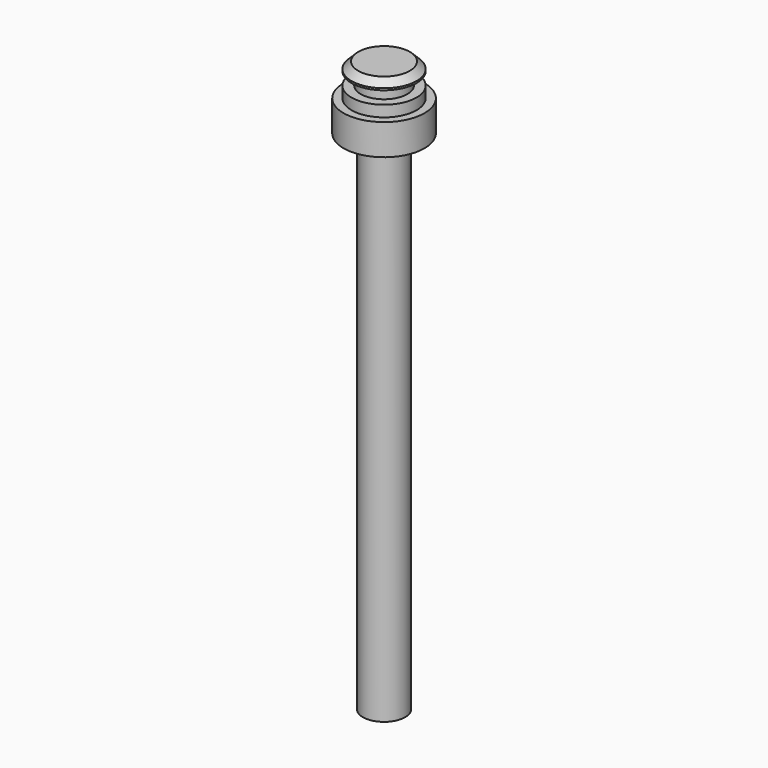
from build123d import *

# Parameters (mm, degrees)
F0_R     = 3.175
F1_DEPTH = 76.2
F2_R     = 6.0833
F3_DEPTH = 4.6482
F4_R     = 4.8895
F5_DEPTH = 4.8768
F6_W     = 1.3843
F6_H     = 1.905
F8_SIZE  = 1.016


with BuildPart() as f1:
    # F0 (on Top) → F1 (new body)
    with BuildSketch(Plane.XY):
        Circle(F0_R)
    extrude(amount=F1_DEPTH)

    # F2 (on face) → F3 (join)
    with BuildSketch(Plane.XY.offset(76.2)):
        Circle(F2_R)
    extrude(amount=F3_DEPTH)

    # F4 (on face) → F5 (join)
    with BuildSketch(Plane.XY.offset(80.8482)):
        Circle(F4_R)
    extrude(amount=F5_DEPTH)

    # F6 (on Front) → F7 (revolve, cut)
    with BuildSketch(Plane.XZ):
        with Locations((4.19735, 83.4771)):
            Rectangle(F6_W, F6_H)
    revolve(axis=Axis((0, 0, 63.428978), (0, 0, -1)), mode=Mode.SUBTRACT)

    # F8
    f8_edges = [f1.edges().sort_by_distance(p)[0] for p in [
        (-4.8895, 0, 85.725),
    ]]
    chamfer(f8_edges, length=F8_SIZE)


solid = f1.part
